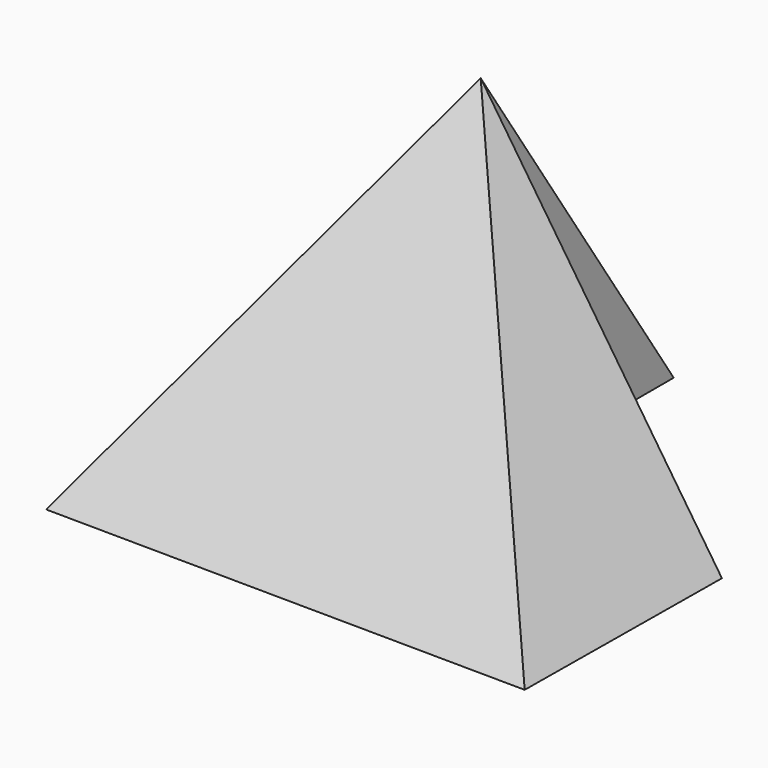
from build123d import *

# Parameters (mm, degrees)
F4_W     = 4.316755
F4_H     = 4.316762
F5_DEPTH = 203.2


with BuildPart() as f3:
    # F0 (on Top) → F3 section 0
    with BuildSketch(Plane.XY, mode=Mode.PRIVATE) as f3_s0:
        Polygon((102.593086, 100.59711), (-100.59711, 102.593086), (-102.593086, -100.59711), (100.59711, -102.593086), align=None)
    loft([f3_s0.sketch, Vertex(0, 0, 152.4)])

    # F4 (on offset) → F5 (cut)
    with BuildSketch(Plane.XY.offset(152.4)):
        Polygon((0, 111.647069), (0, 0), (118.514635, 0), (118.514635, 107.330307), (114.19788, 107.330307), (114.19788, 111.647069), align=None)
        with Locations((116.356257, 109.488688)):
            Rectangle(F4_W, F4_H)
    extrude(amount=-F5_DEPTH, mode=Mode.SUBTRACT)


solid = f3.part
